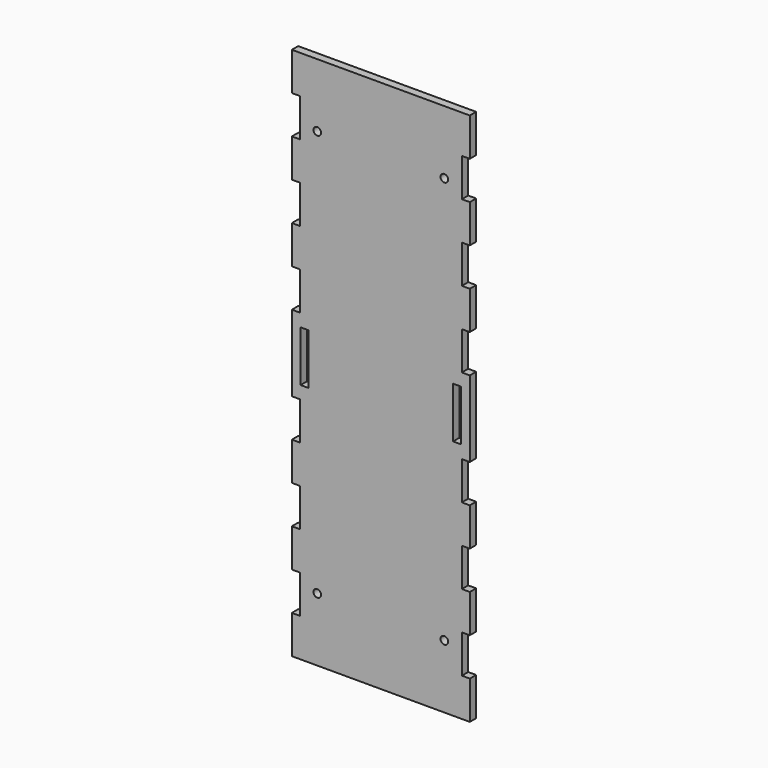
from build123d import *

# Parameters (mm, degrees)
F1_R     = 1.5
F1_W     = 3.125
F1_H     = 20
F2_DEPTH = 3.125


with BuildPart() as f2:
    # F1 (on Front) → F2 (new body)
    with BuildSketch(Plane.XZ):
        Polygon((-35, -25), (0, -25), (35, -25), (35, -10), (31.875, -10), (31.875, 5), (35, 5), (35, 20), (31.875, 20), (31.875, 35), (35, 35), (35, 50), (31.875, 50), (31.875, 65), (35, 65), (35, 80), (35, 95), (31.875, 95), (31.875, 110), (35, 110), (35, 125), (31.875, 125), (31.875, 140), (35, 140), (35, 155), (31.875, 155), (31.875, 170), (35, 170), (35, 185), (0, 185), (-35, 185), (-35, 170), (-31.875, 170), (-31.875, 155), (-35, 155), (-35, 140), (-31.875, 140), (-31.875, 125), (-35, 125), (-35, 110), (-31.875, 110), (-31.875, 95), (-35, 95), (-35, 80), (-35, 65), (-31.875, 65), (-31.875, 50), (-35, 50), (-35, 35), (-31.875, 35), (-31.875, 20), (-35, 20), (-35, 5), (-31.875, 5), (-31.875, -10), (-35, -10), align=None)
        with Locations((-25, 0)):
            Circle(F1_R, mode=Mode.SUBTRACT)
        with Locations((25, 0)):
            Circle(F1_R, mode=Mode.SUBTRACT)
        with Locations((-30, 80)):
            Rectangle(F1_W, F1_H, mode=Mode.SUBTRACT)
        with Locations((-25, 160)):
            Circle(F1_R, mode=Mode.SUBTRACT)
        with Locations((30, 80)):
            Rectangle(F1_W, F1_H, mode=Mode.SUBTRACT)
        with Locations((25, 160)):
            Circle(F1_R, mode=Mode.SUBTRACT)
    extrude(amount=F2_DEPTH)


solid = f2.part
